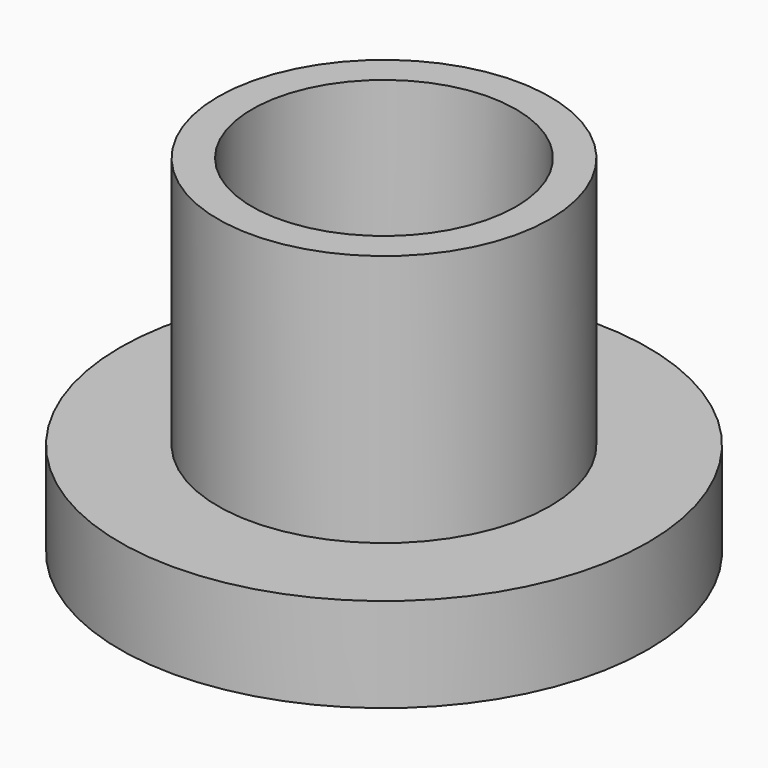
from build123d import *

# Parameters (mm, degrees)
F0_R     = 7
F0_R_2   = 4.4
F1_DEPTH = 2.5
F0_R_3   = 3.5
F2_DEPTH = 9.2
F3_DEPTH = 4.2


with BuildPart() as f1:
    # F0 (on Top) → F1 (new body)
    with BuildSketch(Plane.XY):
        Circle(F0_R)
        Circle(F0_R_2, mode=Mode.SUBTRACT)
    extrude(amount=F1_DEPTH)

    # F0 (on Top) → F2 (join)
    with BuildSketch(Plane.XY):
        Circle(F0_R_2)
        Circle(F0_R_3, mode=Mode.SUBTRACT)
    extrude(amount=F2_DEPTH)

    # F0 (on Top) → F3 (join)
    with BuildSketch(Plane.XY):
        Circle(F0_R_3)
    extrude(amount=F3_DEPTH)


solid = f1.part
